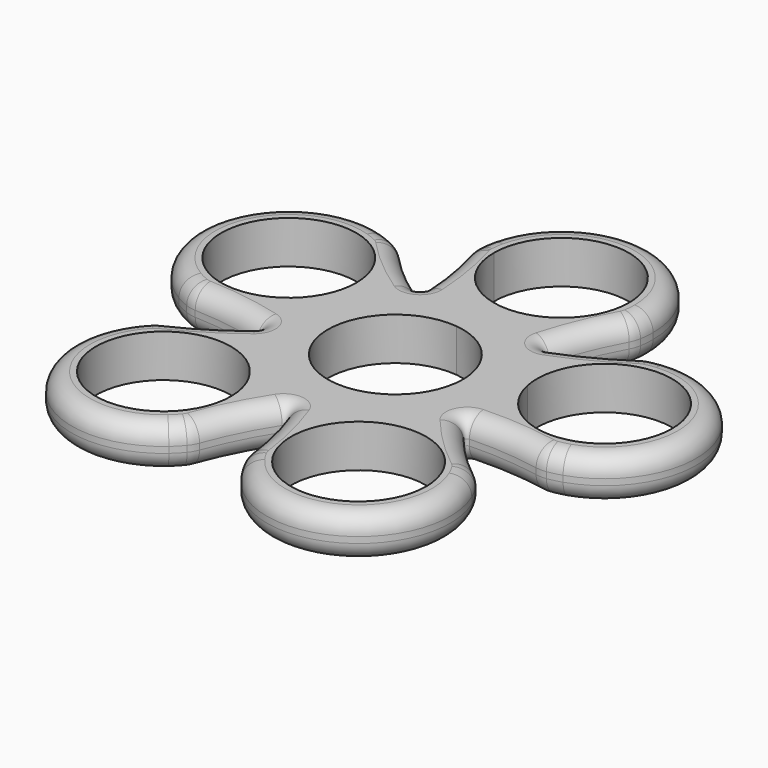
from build123d import *

# Parameters (mm, degrees)
F0_R     = 11.05
F1_DEPTH = 7
F2_R     = 3
F3_R     = 3


with BuildPart() as f1:
    # F0 (on Top) → F1 (new body)
    with BuildSketch(Plane.XY):
        with BuildLine():
            Line((18.318121, 29.815937), (14.368121, 29.815937))
            ThreePointArc((14.368121, 29.815937), (10.686889, 21.581632), (2.095947, 18.833733))
            Line((2.095947, 18.833733), (1.659061, 14.907968))
            ThreePointArc((1.659061, 14.907968), (7.347946, 13.076991), (11.870438, 9.170208))
            ThreePointArc((11.870438, 9.170208), (12.437533, 12.149053), (13.177846, 15.08964))
            ThreePointArc((13.177846, 15.08964), (15.076871, 20.596084), (17.581688, 25.854706))
            ThreePointArc((17.581688, 25.854706), (17.927818, 26.64087), (18.134278, 27.474678))
            ThreePointArc((18.134278, 27.474678), (18.27209, 28.641704), (18.318121, 29.815937))
        make_face()
        with BuildLine():
            ThreePointArc((-7.731879, 29.815937), (3.318121, 40.865937), (14.368121, 29.815937))
            Line((14.368121, 29.815937), (18.318121, 29.815937))
            ThreePointArc((18.318121, 29.815937), (4.977182, 44.723905), (-11.314881, 33.1137))
            ThreePointArc((-11.314881, 33.1137), (-11.528132, 31.958076), (-11.650264, 30.789305))
            ThreePointArc((-11.650264, 30.789305), (-11.658144, 30.301846), (-11.618515, 29.815937))
            Line((-11.618515, 29.815937), (-7.731879, 29.815937))
        make_face()
        with BuildLine():
            ThreePointArc((2.095947, 18.833733), (-4.916183, 22.447169), (-7.731879, 29.815937))
            Line((-7.731879, 29.815937), (-11.618515, 29.815937))
            ThreePointArc((-11.618515, 29.815937), (-11.556498, 29.448893), (-11.467345, 29.087481))
            ThreePointArc((-11.467345, 29.087481), (-10.179926, 23.406833), (-9.53796, 17.61761))
            ThreePointArc((-9.53796, 17.61761), (-9.46225, 14.586211), (-9.563931, 11.555571))
            ThreePointArc((-9.563931, 11.555571), (-4.293179, 14.372495), (1.659061, 14.907968))
            Line((1.659061, 14.907968), (2.095947, 18.833733))
        make_face()
        with BuildLine():
            ThreePointArc((40.431997, 6.05791), (28.260541, 17.050855), (18.559628, 3.82658))
            ThreePointArc((18.559628, 3.82658), (30.503452, -4.935035), (40.431997, 6.05791))
        make_face()
        with BuildLine():
            ThreePointArc((13.177846, 15.08964), (12.437533, 12.149053), (11.870438, 9.170208))
            ThreePointArc((11.870438, 9.170208), (13.631075, 6.260494), (14.690998, 3.028955))
            ThreePointArc((14.690998, 3.028955), (14.92255, 1.522338), (15, 0))
            ThreePointArc((15, 0), (2.812359, -14.733996), (-13.945418, -5.524971))
            ThreePointArc((-13.945418, -5.524971), (-16.796307, -4.491748), (-19.702735, -3.626998))
            ThreePointArc((-19.702735, -3.626998), (-19.358502, -3.99129), (-19.530569, -4.462031))
            ThreePointArc((-19.530569, -4.462031), (-24.303519, -7.800619), (-29.420899, -10.58264))
            ThreePointArc((-29.420899, -10.58264), (-30.16302, -11.01521), (-30.82015, -11.56842))
            ThreePointArc((-30.82015, -11.56842), (-31.617602, -12.43156), (-32.345039, -13.354478))
            ThreePointArc((-32.345039, -13.354478), (-30.314676, -33.256885), (-10.309813, -33.440266))
            ThreePointArc((-10.309813, -33.440266), (-9.458031, -32.630693), (-8.672238, -31.756925))
            ThreePointArc((-8.672238, -31.756925), (-8.182089, -31.051506), (-7.819915, -30.272603))
            ThreePointArc((-7.819915, -30.272603), (-5.522458, -24.920135), (-2.639, -19.859218))
            ThreePointArc((-2.639, -19.859218), (-2.186164, -19.644406), (-1.791634, -19.953519))
            ThreePointArc((-1.791634, -19.953519), (-0.091371, -25.524544), (0.973131, -31.251153))
            ThreePointArc((0.973131, -31.251153), (1.155201, -32.090624), (1.478271, -32.886543))
            ThreePointArc((1.478271, -32.886543), (2.05274, -33.91169), (2.705696, -34.888721))
            ThreePointArc((2.705696, -34.888721), (22.261427, -39.107913), (28.617675, -20.138826))
            ThreePointArc((28.617675, -20.138826), (28.110941, -19.078561), (27.522761, -18.061218))
            ThreePointArc((27.522761, -18.061218), (27.003333, -17.377073), (26.37447, -16.79193))
            ThreePointArc((26.37447, -16.79193), (21.993924, -12.952915), (18.071743, -8.646674))
            ThreePointArc((18.071743, -8.646674), (18.007378, -8.14962), (18.423279, -7.869921))
            ThreePointArc((18.423279, -7.869921), (24.247049, -7.974416), (30.022327, -8.731635))
            ThreePointArc((30.022327, -8.731635), (30.876974, -8.817886), (31.733772, -8.756581))
            ThreePointArc((31.733772, -8.756581), (32.886265, -8.527017), (34.017252, -8.207938))
            ThreePointArc((34.017252, -8.207938), (44.072995, 9.086865), (27.996509, 20.993787))
            ThreePointArc((27.996509, 20.993787), (26.831548, 20.839494), (25.68224, 20.594478))
            ThreePointArc((25.68224, 20.594478), (24.871067, 20.311885), (24.120234, 19.894619))
            ThreePointArc((24.120234, 19.894619), (19.115451, 16.914794), (13.807951, 14.51528))
            ThreePointArc((13.807951, 14.51528), (13.315336, 14.607663), (13.177846, 15.08964))
        make_face()
        with Locations((-20.209784, -22.171257)):
            Circle(F0_R, mode=Mode.SUBTRACT)
        with Locations((14.840951, -26.071942)):
            Circle(F0_R, mode=Mode.SUBTRACT)
        with BuildLine():
            ThreePointArc((40.431997, 6.05791), (30.503452, -4.935035), (18.559628, 3.82658))
            ThreePointArc((18.559628, 3.82658), (28.260541, 17.050855), (40.431997, 6.05791))
        make_face(mode=Mode.SUBTRACT)
        with BuildLine():
            ThreePointArc((-13.945418, -5.524971), (-14.529577, 3.727116), (-9.563931, 11.555571))
            ThreePointArc((-9.563931, 11.555571), (-9.46225, 14.586211), (-9.53796, 17.61761))
            ThreePointArc((-9.53796, 17.61761), (-9.778048, 17.177653), (-10.278922, 17.195832))
            ThreePointArc((-10.278922, 17.195832), (-14.92903, 20.703496), (-19.156246, 24.710722))
            ThreePointArc((-19.156246, 24.710722), (-19.796973, 25.28285), (-20.526171, 25.736866))
            ThreePointArc((-20.526171, 25.736866), (-21.593493, 26.228563), (-22.69603, 26.6352))
            ThreePointArc((-22.69603, 26.6352), (-40.996927, 18.554028), (-34.98949, -0.528395))
            ThreePointArc((-34.98949, -0.528395), (-33.956325, -1.088316), (-32.882499, -1.565641))
            ThreePointArc((-32.882499, -1.565641), (-32.060142, -1.813814), (-31.207443, -1.917567))
            ThreePointArc((-31.207443, -1.917567), (-25.406991, -2.448575), (-19.702735, -3.626998))
            ThreePointArc((-19.702735, -3.626998), (-16.796307, -4.491748), (-13.945418, -5.524971))
        make_face()
        with Locations((-27.331285, 12.369352)):
            Circle(F0_R, mode=Mode.SUBTRACT)
        with BuildLine():
            ThreePointArc((11.870438, 9.170208), (7.347946, 13.076991), (1.659061, 14.907968))
            Line((1.659061, 14.907968), (1.222175, 10.982203))
            ThreePointArc((1.222175, 10.982203), (7.443937, 8.166413), (10.822369, 2.23133))
            Line((10.822369, 2.23133), (14.690998, 3.028955))
            ThreePointArc((14.690998, 3.028955), (13.631075, 6.260494), (11.870438, 9.170208))
        make_face()
        with BuildLine():
            Line((1.222175, 10.982203), (1.659061, 14.907968))
            ThreePointArc((1.659061, 14.907968), (-4.293179, 14.372495), (-9.563931, 11.555571))
            ThreePointArc((-9.563931, 11.555571), (-14.529577, 3.727116), (-13.945418, -5.524971))
            ThreePointArc((-13.945418, -5.524971), (2.812359, -14.733996), (15, 0))
            ThreePointArc((15, 0), (14.92255, 1.522338), (14.690998, 3.028955))
            Line((14.690998, 3.028955), (10.822369, 2.23133))
            ThreePointArc((10.822369, 2.23133), (10.992945, 1.121456), (11.05, 0))
            ThreePointArc((11.05, 0), (-8.234304, -7.368768), (1.222175, 10.982203))
        make_face()
    extrude(amount=F1_DEPTH)

    # F2
    f2_edges = [f1.edges().sort_by_distance(p)[0] for p in [
        (4.977182, 44.723905, 7),
        (-40.996927, 18.554028, 7),
    ]]
    fillet(f2_edges, radius=F2_R)

    # F3
    f3_edges = [f1.edges().sort_by_distance(p)[0] for p in [
        (-40.996927, 18.554028, 0),
        (-30.314676, -33.256885, 0),
    ]]
    fillet(f3_edges, radius=F3_R)


solid = f1.part
